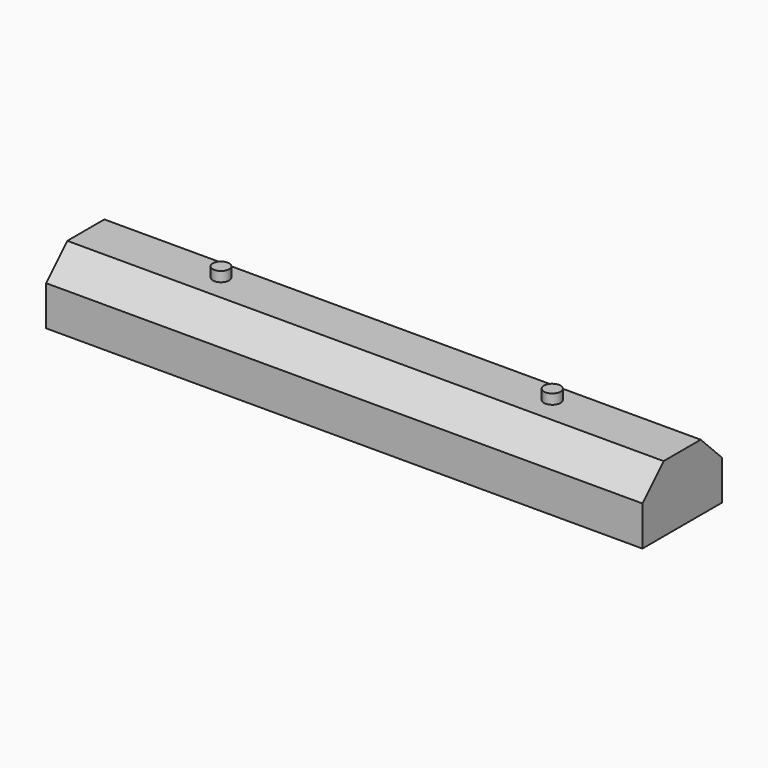
from build123d import *

# Parameters (mm, degrees)
F0_W     = 3.81
F0_H     = 2.54
F1_DEPTH = 22.86
F2_SIZE  = 1.016
F3_R     = 0.309594
F3_R_2   = 0.3175
F4_DEPTH = 0.381


with BuildPart() as f1:
    # F0 (on Right) → F1 (new body)
    with BuildSketch(Plane.YZ):
        with Locations((1.905, 1.27)):
            Rectangle(F0_W, F0_H)
    extrude(amount=F1_DEPTH)

    # F2
    f2_edges = [f1.edges().sort_by_distance(p)[0] for p in [
        (11.43, 0, 2.54),
        (11.43, 3.81, 2.54),
    ]]
    chamfer(f2_edges, length=F2_SIZE)

    # F3 (on face) → F4 (join)
    with BuildSketch(Plane.XY.offset(2.54)):
        with Locations((5.08, 2.032)):
            Circle(F3_R)
        with Locations((17.78, 2.032)):
            Circle(F3_R_2)
    extrude(amount=F4_DEPTH)


solid = f1.part
